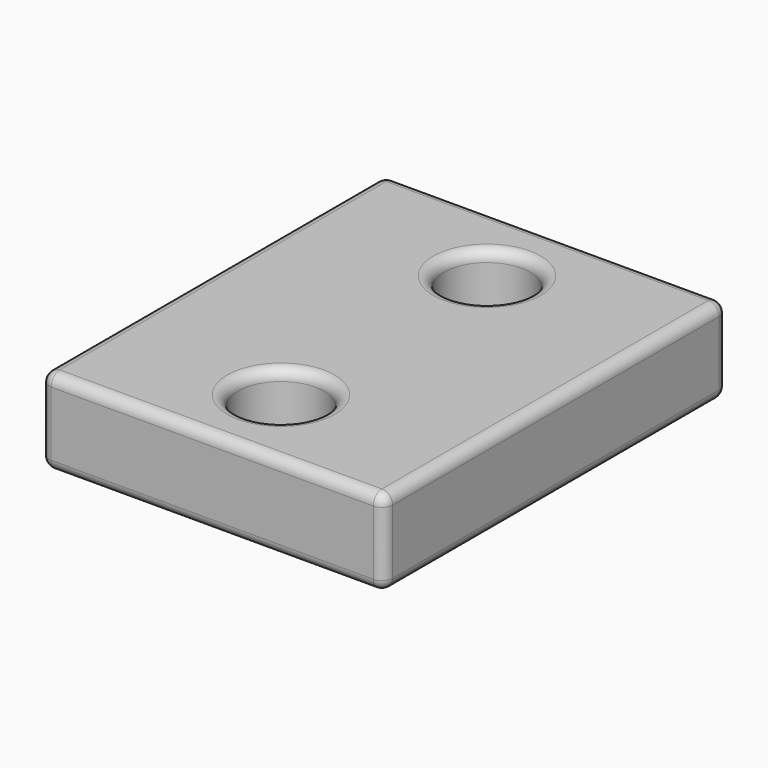
from build123d import *

# Parameters (mm, degrees)
F0_W     = 203.2
F0_H     = 254
F0_R     = 25.4
F1_DEPTH = 50.8
F2_R     = 6.35


with BuildPart() as f1:
    # F0 (on Top) → F1 (new body)
    with BuildSketch(Plane.XY):
        with Locations((101.6, 127)):
            Rectangle(F0_W, F0_H)
        with Locations((101.6, 50.8)):
            Circle(F0_R, mode=Mode.SUBTRACT)
        with Locations((101.6, 203.2)):
            Circle(F0_R, mode=Mode.SUBTRACT)
    extrude(amount=F1_DEPTH)

    # F2
    f2_edges = [f1.edges().sort_by_distance(p)[0] for p in [
        (0, 127, 50.8),
        (0, 254, 25.4),
        (0, 127, 0),
        (0, 0, 25.4),
        (101.6, 0, 50.8),
        (101.6, 0, 0),
        (203.2, 0, 25.4),
        (76.2, 50.8, 50.8),
        (76.2, 50.8, 0),
        (76.2, 203.2, 50.8),
        (76.2, 203.2, 0),
        (101.6, 254, 50.8),
        (203.2, 127, 50.8),
        (203.2, 254, 25.4),
        (101.6, 254, 0),
        (203.2, 127, 0),
    ]]
    fillet(f2_edges, radius=F2_R)


solid = f1.part
